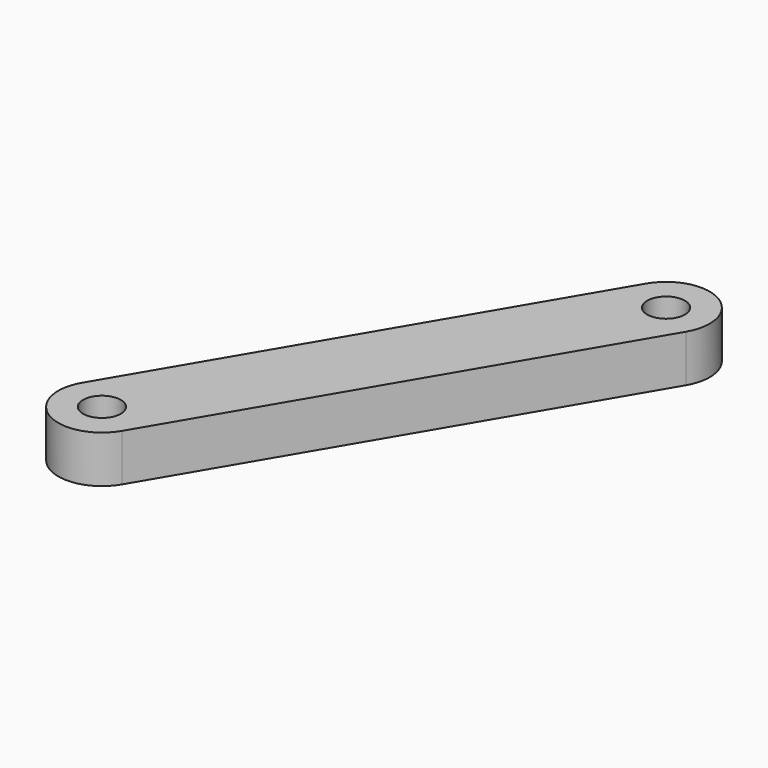
from build123d import *

# Parameters (mm, degrees)
CYLINDER005_R            = 1.6
CYLINDER005_DEPTH        = 30
PAD002_DEPTH             = 4
CLONE007_PLACEMENT_ANGLE = 59.5063808355


with BuildPart() as finger_drill_master:
    # Cylinder005 → Cylinder005 (new body)
    with BuildSketch(Plane.XY.offset(-8)):
        Circle(CYLINDER005_R)
    extrude(amount=CYLINDER005_DEPTH)


with BuildPart() as clone006:
    # Clone006 base: copy of finger-drill-master
    add(finger_drill_master.part)


with BuildPart() as clone006_1:
    # Clone006 placement: moved
    add(clone006.part.moved(Location((40, 0, 0))))


with BuildPart() as fusion012:
    # Clone005 base: copy of finger-drill-master
    add(finger_drill_master.part)

    # Fusion012: union Clone006
    add(clone006_1.part)


with BuildPart() as left_link:
    # Sketch002 → Pad002 (new body)
    with BuildSketch(Plane.XY):
        with BuildLine():
            ThreePointArc((0, 3.7), (-3.7, 0), (0, -3.7))
            Line((0, -3.7), (40, -3.7))
            ThreePointArc((40, -3.7), (43.7, 0), (40, 3.7))
            Line((0, 3.7), (40, 3.7))
        make_face()
    extrude(amount=PAD002_DEPTH)

    # Cut001: cut Fusion012
    add(fusion012.part, mode=Mode.SUBTRACT)


with BuildPart() as left_link_1:
    # Clone007 placement: moved
    add(left_link.part.moved(Location((187.1034801236, 214.4662976869, 4.3))).rotate(Axis((187.1034801236, 214.4662976869, 4.3), (0, 0, 1)), CLONE007_PLACEMENT_ANGLE))


solid = left_link_1.part
